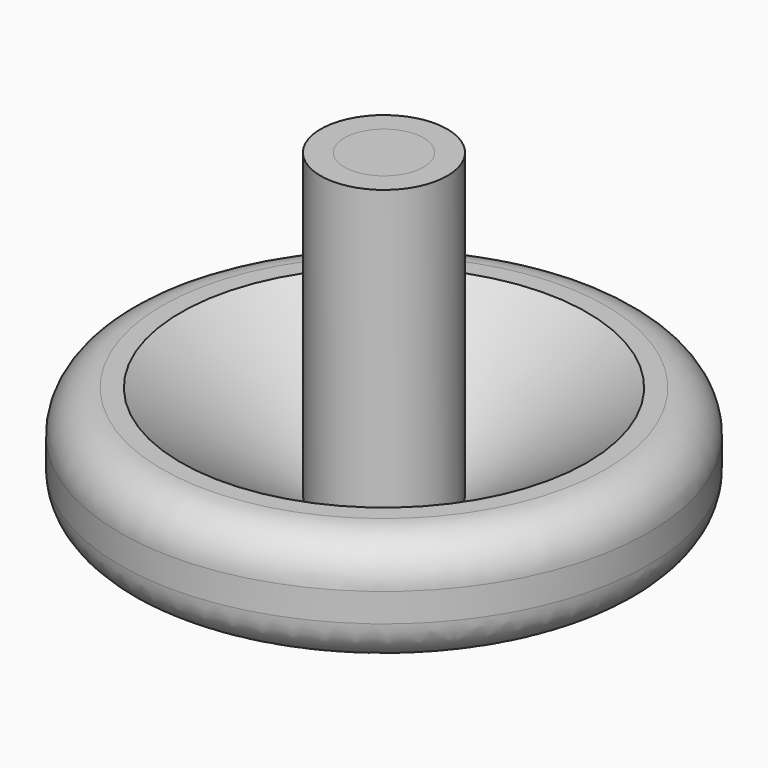
from build123d import *

# Parameters (mm, degrees)
F2_R      = 5.08
F3_R      = 25.4
F4_R      = 4.7625
F5_DEPTH  = 9.525
F6_R      = 1.5875
F7_DEPTH  = 9.525
F5_FACE_R = 4.7625
F8_DEPTH  = 9.525
F9_DEPTH  = 24.892


with BuildPart() as f1:
    # F0 (on Front) → F1 (revolve)
    with BuildSketch(Plane.XZ):
        Polygon((10.500061, 4.015946), (31.75, 8.134865), (31.75, 20.834865), (24.443309, 20.834865), (7.62, 9.438433), (7.62, 45.72), (0, 45.72), (0, 0), (1.5875, 0), align=None)
    revolve(axis=Axis((0, 0, 22.86), (0, 0, -1)))

    # F2
    f2_edges = [f1.edges().sort_by_distance(p)[0] for p in [
        (-31.75, 0, 8.134865),
        (-31.75, 0, 20.834865),
        (31.75, 0, 14.484865),
    ]]
    fillet(f2_edges, radius=F2_R)

    # F3
    f3_edges = [f1.edges().sort_by_distance(p)[0] for p in [
        (-10.500061, 0, 4.015946),
    ]]
    fillet(f3_edges, radius=F3_R)

    # F4 (on face) → F5 (cut)
    with BuildSketch(Plane.XY.offset(45.72)):
        Circle(F4_R)
    extrude(amount=-F5_DEPTH, mode=Mode.SUBTRACT)

    # F5_face (on face) → F9 (cut)
    with BuildSketch(Plane.XY.offset(36.195)):
        Circle(F5_FACE_R)
    extrude(amount=-F9_DEPTH, mode=Mode.SUBTRACT)


with BuildPart() as f7:
    # F6 (on Top) → F7 (new body)
    with BuildSketch(Plane.XY):
        Circle(F6_R)
    extrude(amount=F7_DEPTH)


with BuildPart() as f8:
    # F5_face (on face) → F8 (new body)
    with BuildSketch(Plane.XY.offset(36.195)):
        Circle(F5_FACE_R)
    extrude(amount=F8_DEPTH)


solid = Compound([f1.part, f7.part, f8.part])
